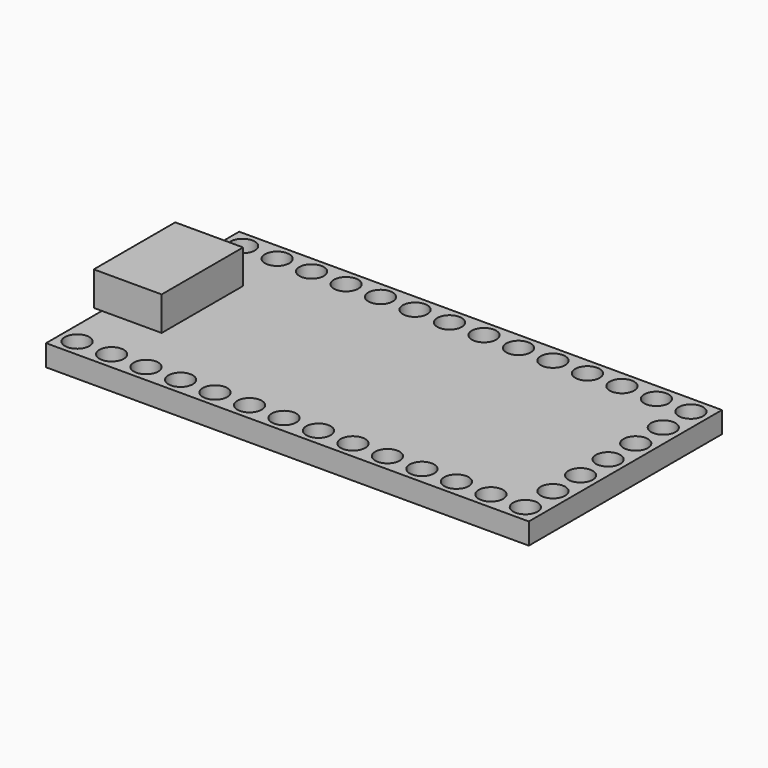
from build123d import *

# Parameters (mm, degrees)
F0_W     = 4.4
F0_H     = 7.5
F0_W_2   = 0.6
F1_DEPTH = 4.07
F2_DEPTH = 1.57
F0_R     = 0.9
F3_DEPTH = 1.57


with BuildPart() as f1:
    # F0 (on Top) → F1 (new body)
    with BuildSketch(Plane.XY):
        with Locations((2.2, 0)):
            Rectangle(F0_W, F0_H)
        with Locations((-0.3, 0)):
            Rectangle(F0_W_2, F0_H)
    extrude(amount=F1_DEPTH)

    # F0 (on Top) → F2 (cut)
    with BuildSketch(Plane.XY):
        with Locations((2.2, 0)):
            Rectangle(F0_W, F0_H)
        with Locations((-0.3, 0)):
            Rectangle(F0_W_2, F0_H)
    extrude(amount=F2_DEPTH, mode=Mode.SUBTRACT)


with BuildPart() as f3:
    # F0 (on Top) → F3 (new body)
    with BuildSketch(Plane.XY):
        with Locations((2.2, 0)):
            Rectangle(F0_W, F0_H)
        Polygon((35.56, 8.89), (0, 8.89), (0, 3.75), (4.4, 3.75), (4.4, -3.75), (0, -3.75), (0, -8.89), (35.56, -8.89), align=None)
        with Locations((1.27, -7.62)):
            Circle(F0_R, mode=Mode.SUBTRACT)
        with Locations((3.81, -7.62)):
            Circle(F0_R, mode=Mode.SUBTRACT)
        with Locations((6.35, -7.62)):
            Circle(F0_R, mode=Mode.SUBTRACT)
        with Locations((8.89, -7.62)):
            Circle(F0_R, mode=Mode.SUBTRACT)
        with Locations((11.43, -7.62)):
            Circle(F0_R, mode=Mode.SUBTRACT)
        with Locations((13.97, -7.62)):
            Circle(F0_R, mode=Mode.SUBTRACT)
        with Locations((16.51, -7.62)):
            Circle(F0_R, mode=Mode.SUBTRACT)
        with Locations((19.05, -7.62)):
            Circle(F0_R, mode=Mode.SUBTRACT)
        with Locations((21.59, -7.62)):
            Circle(F0_R, mode=Mode.SUBTRACT)
        with Locations((24.13, -7.62)):
            Circle(F0_R, mode=Mode.SUBTRACT)
        with Locations((26.67, -7.62)):
            Circle(F0_R, mode=Mode.SUBTRACT)
        with Locations((29.21, -7.62)):
            Circle(F0_R, mode=Mode.SUBTRACT)
        with Locations((31.75, -7.62)):
            Circle(F0_R, mode=Mode.SUBTRACT)
        with Locations((34.29, -7.62)):
            Circle(F0_R, mode=Mode.SUBTRACT)
        with Locations((34.29, -5.08)):
            Circle(F0_R, mode=Mode.SUBTRACT)
        with Locations((34.29, -2.54)):
            Circle(F0_R, mode=Mode.SUBTRACT)
        with Locations((34.29, 0)):
            Circle(F0_R, mode=Mode.SUBTRACT)
        with Locations((1.27, 7.62)):
            Circle(F0_R, mode=Mode.SUBTRACT)
        with Locations((3.81, 7.62)):
            Circle(F0_R, mode=Mode.SUBTRACT)
        with Locations((6.35, 7.62)):
            Circle(F0_R, mode=Mode.SUBTRACT)
        with Locations((8.89, 7.62)):
            Circle(F0_R, mode=Mode.SUBTRACT)
        with Locations((11.43, 7.62)):
            Circle(F0_R, mode=Mode.SUBTRACT)
        with Locations((13.97, 7.62)):
            Circle(F0_R, mode=Mode.SUBTRACT)
        with Locations((16.51, 7.62)):
            Circle(F0_R, mode=Mode.SUBTRACT)
        with Locations((34.29, 2.54)):
            Circle(F0_R, mode=Mode.SUBTRACT)
        with Locations((19.05, 7.62)):
            Circle(F0_R, mode=Mode.SUBTRACT)
        with Locations((21.59, 7.62)):
            Circle(F0_R, mode=Mode.SUBTRACT)
        with Locations((24.13, 7.62)):
            Circle(F0_R, mode=Mode.SUBTRACT)
        with Locations((34.29, 5.08)):
            Circle(F0_R, mode=Mode.SUBTRACT)
        with Locations((26.67, 7.62)):
            Circle(F0_R, mode=Mode.SUBTRACT)
        with Locations((29.21, 7.62)):
            Circle(F0_R, mode=Mode.SUBTRACT)
        with Locations((31.75, 7.62)):
            Circle(F0_R, mode=Mode.SUBTRACT)
        with Locations((34.29, 7.62)):
            Circle(F0_R, mode=Mode.SUBTRACT)
    extrude(amount=F3_DEPTH)


solid = Compound([f1.part, f3.part])
